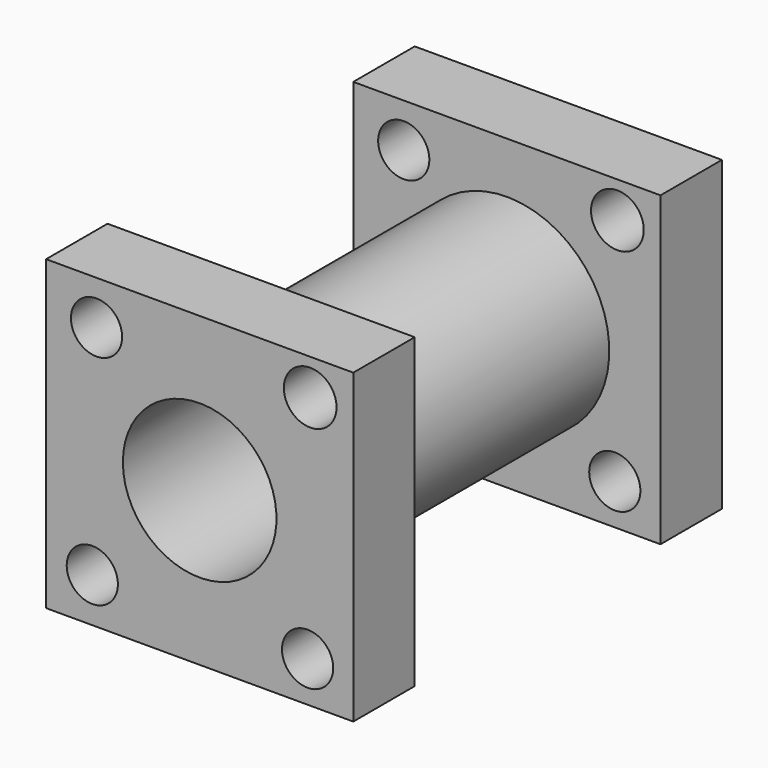
from build123d import *

# Parameters (mm, degrees)
F0_W      = 76.2
F0_H      = 76.2
F1_DEPTH  = 19.05
F2_R      = 19.05
F3_DEPTH  = 25.4
F4_R      = 19.05
F5_DEPTH  = 50.8
F6_W      = 76.2
F6_H      = 76.2
F7_DEPTH  = 19.05
F8_R      = 25.4
F9_DEPTH  = 76.2
F10_R     = 19.05
F11_DEPTH = 114.3
F12_R     = 6.35
F14_DEPTH = 114.3
F13_R     = 6.5396642154
F13_R_2   = 6.35
F15_DEPTH = 127


with BuildPart() as f1:
    # F0 (on Front) → F1 (new body)
    with BuildSketch(Plane.XZ):
        Rectangle(F0_W, F0_H)
    extrude(amount=F1_DEPTH)

    # F2 (on face) → F3 (join)
    with BuildSketch(Plane.XZ.offset(19.05)):
        Circle(F2_R)
    extrude(amount=F3_DEPTH)

    # F4 (on face) → F5 (join)
    with BuildSketch(Plane.XZ.offset(44.45)):
        Circle(F4_R)
    extrude(amount=F5_DEPTH)

    # F6 (on face) → F7 (join)
    with BuildSketch(Plane.XZ.offset(95.25)):
        Rectangle(F6_W, F6_H)
    extrude(amount=F7_DEPTH)

    # F8 (on face) → F9 (join)
    with BuildSketch(Plane(origin=(0, -95.25, 0), x_dir=(-1, 0, 0), z_dir=(0, 1, 0))):
        Circle(F8_R)
    extrude(amount=F9_DEPTH)

    # F10 (on face) → F11 (cut)
    with BuildSketch(Plane(origin=(0, 0, 0), x_dir=(-1, 0, 0), z_dir=(0, 1, 0))):
        Circle(F10_R)
    extrude(amount=-F11_DEPTH, mode=Mode.SUBTRACT)

    # F12 (on face) → F14 (cut)
    with BuildSketch(Plane(origin=(0, 0, 0), x_dir=(-1, 0, 0), z_dir=(0, 1, 0))):
        with Locations((25.5859810859, 27.2544045001)):
            Circle(F12_R)
    extrude(amount=-F14_DEPTH, mode=Mode.SUBTRACT)

    # F13 (on face) → F15 (cut)
    with BuildSketch(Plane(origin=(0, 0, 0), x_dir=(-1, 0, 0), z_dir=(0, 1, 0))):
        with Locations((-27.4109728634, 29.1734542698)):
            Circle(F13_R)
        with Locations((-26.7679095268, -28.0488487333)):
            Circle(F13_R_2)
        with Locations((26.6334090033, -27.1274481038)):
            Circle(F13_R_2)
    extrude(amount=-F15_DEPTH, mode=Mode.SUBTRACT)


solid = f1.part
